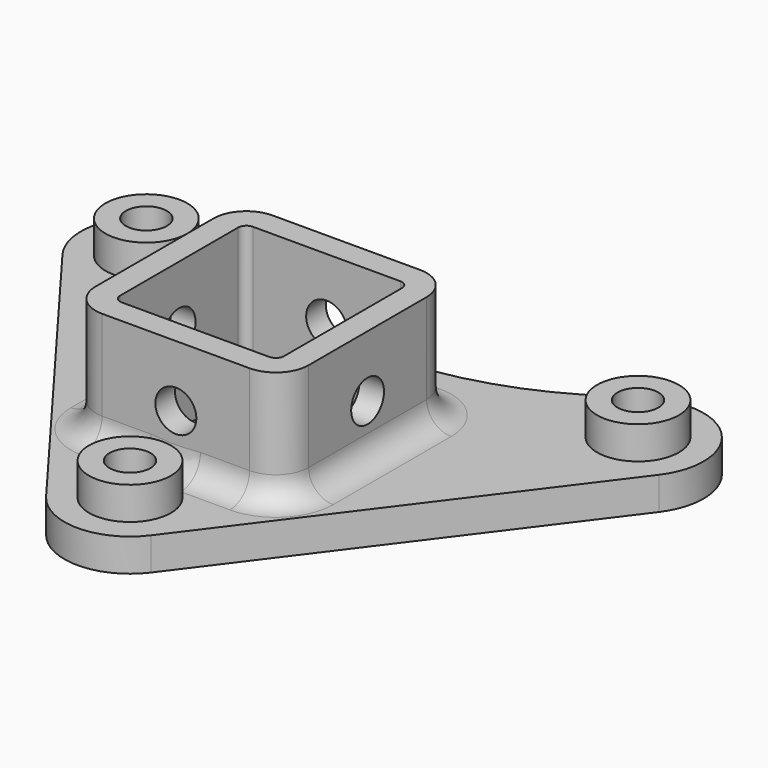
from build123d import *

# Parameters (mm, degrees)
SKETCH109_R           = 2.5
PAD039_DEPTH          = 4
PAD040_DEPTH          = 14
SKETCH111_R           = 2.5
POCKET031_DEPTH       = 4.5
POLARPATTERN019_COUNT = 4
SKETCH112_R           = 5
SKETCH112_R_2         = 2.5
PAD041_DEPTH          = 4
FILLET007_R           = 3


with BuildPart() as part:
    # Sketch109 → Pad039 (new body)
    with BuildSketch(Plane.XY):
        with BuildLine():
            Line((36.4, 15.2), (6.4, -24.8))
            ThreePointArc((-6.4, -24.8), (0, -28), (6.4, -24.8))
            Line((-6.4, -24.8), (-36.4, 15.2))
            ThreePointArc((-25.905574, 26.872821), (-35.949169, 25.348588), (-36.4, 15.2))
            Line((-25.905574, 26.872821), (-20.472131, 23.635893))
            ThreePointArc((-20.472131, 23.635893), (0, 18), (20.472131, 23.635893))
            Line((25.905574, 26.872821), (20.472131, 23.635893))
            ThreePointArc((36.4, 15.2), (35.949169, 25.348588), (25.905574, 26.872821))
        make_face()
        with Locations((30, 20)):
            Circle(SKETCH109_R, mode=Mode.SUBTRACT)
        with Locations((-30, 20)):
            Circle(SKETCH109_R, mode=Mode.SUBTRACT)
        with Locations((0, -20)):
            Circle(SKETCH109_R, mode=Mode.SUBTRACT)
        with BuildLine():
            Line((-9, -10), (9, -10))
            ThreePointArc((9, -10), (9.707107, -9.707107), (10, -9))
            Line((10, -9), (10, 9))
            ThreePointArc((10, 9), (9.707107, 9.707107), (9, 10))
            Line((9, 10), (-9, 10))
            ThreePointArc((-9, 10), (-9.707107, 9.707107), (-10, 9))
            Line((-10, 9), (-10, -9))
            ThreePointArc((-10, -9), (-9.707107, -9.707107), (-9, -10))
        make_face(mode=Mode.SUBTRACT)
    extrude(amount=PAD039_DEPTH)

    # Sketch110 (on Face21 of Pad039) → Pad040 (join)
    with BuildSketch(Plane.XY.offset(4)):
        with BuildLine():
            Line((-9, 13), (9, 13))
            ThreePointArc((13, 9), (11.828427, 11.828427), (9, 13))
            Line((13, 9), (13, -9))
            ThreePointArc((9, -13), (11.828427, -11.828427), (13, -9))
            Line((9, -13), (-9, -13))
            ThreePointArc((-13, -9), (-11.828427, -11.828427), (-9, -13))
            Line((-13, -9), (-13, 9))
            ThreePointArc((-9, 13), (-11.828427, 11.828427), (-13, 9))
        make_face()
        with BuildLine():
            Line((-9, -10), (9, -10))
            ThreePointArc((9, -10), (9.707107, -9.707107), (10, -9))
            Line((10, -9), (10, 9))
            ThreePointArc((10, 9), (9.707107, 9.707107), (9, 10))
            Line((9, 10), (-9, 10))
            ThreePointArc((-9, 10), (-9.707107, 9.707107), (-10, 9))
            Line((-10, 9), (-10, -9))
            ThreePointArc((-10, -9), (-9.707107, -9.707107), (-9, -10))
        make_face(mode=Mode.SUBTRACT)
    extrude(amount=PAD040_DEPTH)

    # Sketch111 → Pocket031 (cut, symmetric)
    with BuildSketch(Plane(origin=(0, 13, 0), x_dir=(-1, 0, 0), z_dir=(0, 1, 0))):
        with Locations((0, 10.5)):
            Circle(SKETCH111_R)
    pocket031 = extrude(amount=POCKET031_DEPTH, both=True, mode=Mode.SUBTRACT)

    # PolarPattern019: Pocket031 ×4 about axis
    polarpattern019_axis = Axis((0, 0, 0), (0, 0, 1))
    for i in range(1, POLARPATTERN019_COUNT):
        add(pocket031.rotate(polarpattern019_axis, i * 360 / POLARPATTERN019_COUNT), mode=Mode.SUBTRACT)

    # Sketch112 (on Face1 of PolarPattern019) → Pad041 (join)
    with BuildSketch(Plane.XY.offset(4)):
        with Locations((30, 20)):
            Circle(SKETCH112_R)
        with Locations((30, 20)):
            Circle(SKETCH112_R_2, mode=Mode.SUBTRACT)
        with Locations((-30, 20)):
            Circle(SKETCH112_R)
        with Locations((-30, 20)):
            Circle(SKETCH112_R_2, mode=Mode.SUBTRACT)
        with Locations((0, -20)):
            Circle(SKETCH112_R)
        with Locations((0, -20)):
            Circle(SKETCH112_R_2, mode=Mode.SUBTRACT)
    extrude(amount=PAD041_DEPTH)

    # Fillet007
    fillet007_edges = [part.edges().sort_by_distance(p)[0] for p in [
        (-11.828427, 11.828427, 4),
    ]]
    fillet(fillet007_edges, radius=FILLET007_R)


solid = part.part
